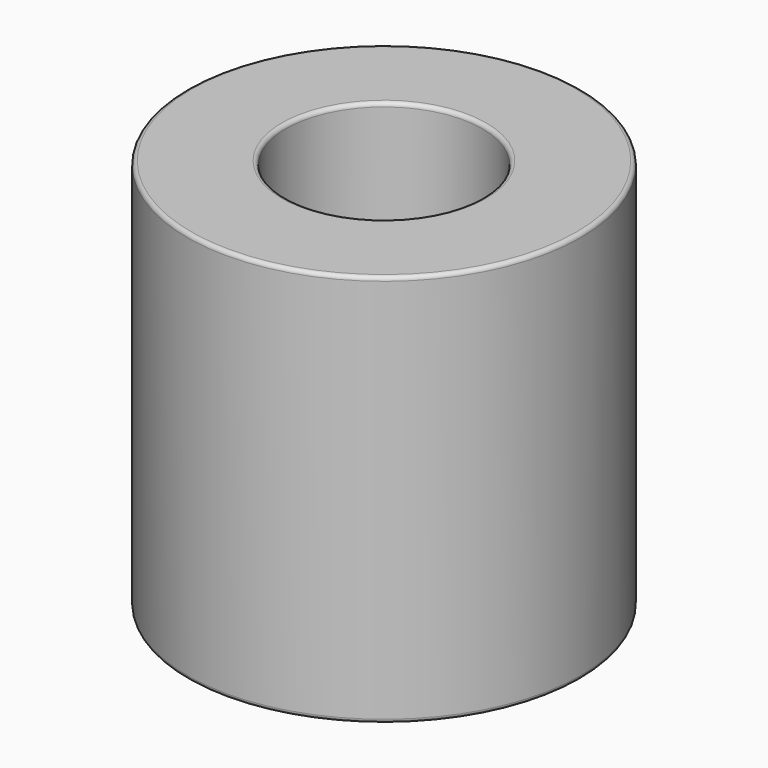
from build123d import *

# Parameters (mm, degrees)
F0_R     = 50
F1_DEPTH = 100
F2_T     = -25
F3_R     = 1


with BuildPart() as f1:
    # F0 (on Top) → F1 (new body)
    with BuildSketch(Plane.XY):
        Circle(F0_R)
    extrude(amount=F1_DEPTH)

    # F2
    f2_openings = [f1.faces().sort_by_distance(p)[0] for p in [
        (0, 0, 100),
        (0, 0, 0),
    ]]
    offset(amount=F2_T, openings=f2_openings)

    # F3
    f3_edges = [f1.edges().sort_by_distance(p)[0] for p in [
        (-50, 0, 100),
        (-25, 0, 100),
        (-50, 0, 0),
        (-25, 0, 0),
    ]]
    fillet(f3_edges, radius=F3_R)


solid = f1.part
